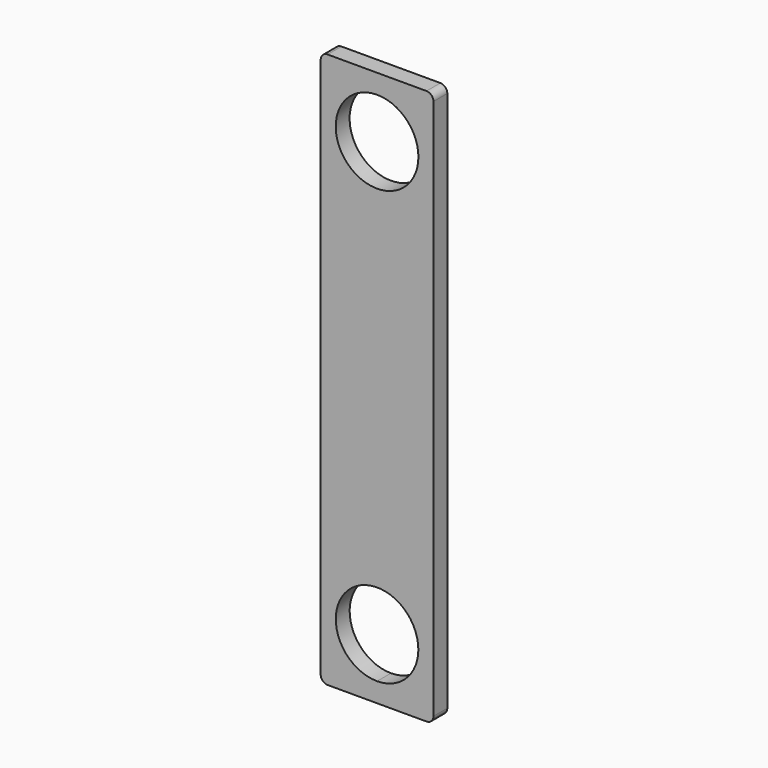
from build123d import *

# Parameters (mm, degrees)
F1_DEPTH = 12.7
F2_R     = 5.08
F3_R     = 5.08


with BuildPart() as f1:
    # F0 (on Front) → F1 (new body)
    with BuildSketch(Plane.XZ):
        with BuildLine():
            ThreePointArc((71.501, 44.45), (19.90199, 65.82301), (41.275, 14.224))
            ThreePointArc((41.275, 14.224), (62.64801, 23.07699), (71.501, 44.45))
        make_face()
        with BuildLine():
            ThreePointArc((71.5391, 361.95), (62.67495, 383.34995), (41.275, 392.2141))
            ThreePointArc((41.275, 392.2141), (19.87505, 340.55005), (71.5391, 361.95))
        make_face()
        Polygon((0, 406.4), (0, 0), (41.275, 0), (82.55, 0), (82.55, 406.4), (41.275, 406.4), align=None)
        with BuildLine():
            ThreePointArc((71.501, 44.45), (62.64801, 23.07699), (41.275, 14.224))
            ThreePointArc((41.275, 14.224), (19.90199, 65.82301), (71.501, 44.45))
        make_face(mode=Mode.SUBTRACT)
        with BuildLine():
            ThreePointArc((71.5391, 361.95), (19.87505, 340.55005), (41.275, 392.2141))
            ThreePointArc((41.275, 392.2141), (62.67495, 383.34995), (71.5391, 361.95))
        make_face(mode=Mode.SUBTRACT)
    extrude(amount=F1_DEPTH)

    # F2
    f2_edges = [f1.edges().sort_by_distance(p)[0] for p in [
        (82.55, -6.35, 406.4),
    ]]
    fillet(f2_edges, radius=F2_R)

    # F3
    f3_edges = [f1.edges().sort_by_distance(p)[0] for p in [
        (0, -6.35, 406.4),
        (82.55, -6.35, 0),
        (0, -6.35, 0),
    ]]
    fillet(f3_edges, radius=F3_R)


solid = f1.part
